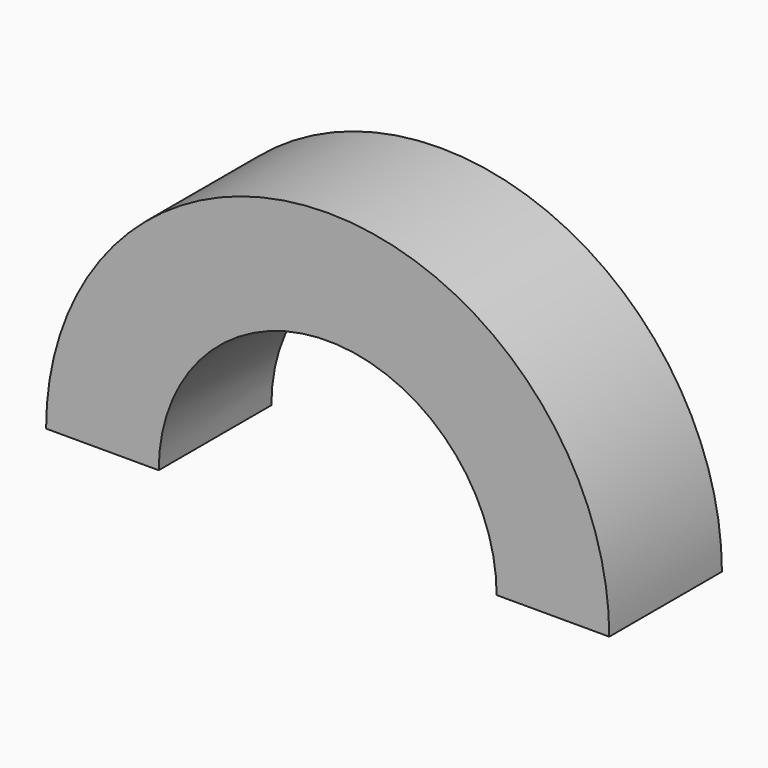
from build123d import *

# Parameters (mm, degrees)
F0_R     = 20
F0_R_2   = 12
F1_DEPTH = 10
F2_W     = 31.608604
F2_H     = 31.133
F2_W_2   = 32.649785
F3_DEPTH = 25


with BuildPart() as f1:
    # F0 (on Front) → F1 (new body)
    with BuildSketch(Plane.XZ):
        Circle(F0_R)
        Circle(F0_R_2, mode=Mode.SUBTRACT)
    extrude(amount=F1_DEPTH)

    # F2 (on face) → F3 (cut)
    with BuildSketch(Plane.XZ.offset(10)):
        with Locations((-15.804302, -15.5665)):
            Rectangle(F2_W, F2_H)
        with Locations((16.324893, -15.5665)):
            Rectangle(F2_W_2, F2_H)
    extrude(amount=-F3_DEPTH, mode=Mode.SUBTRACT)


solid = f1.part
